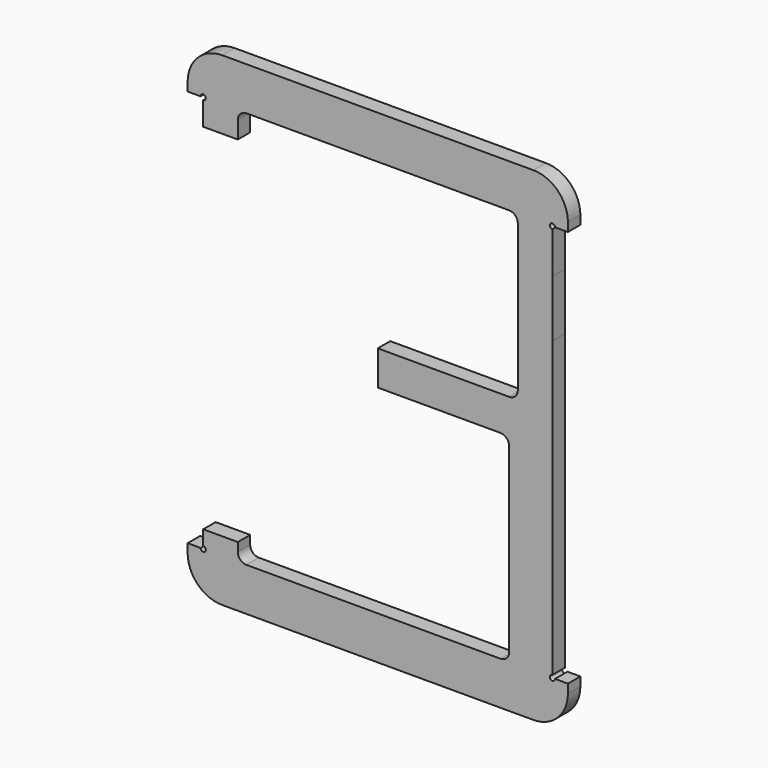
from build123d import *

# Parameters (mm, degrees)
F0_W     = 19.999999
F0_H     = 33
F0_W_2   = 15
F0_H_2   = 45
F1_DEPTH = 9


with BuildPart() as f1:
    # F0 (on Front) → F1 (new body)
    with BuildSketch(Plane.XZ):
        with BuildLine():
            Line((80.58994, 134.787209), (-99.41006, 134.787209))
            ThreePointArc((-99.41006, 134.787209), (-113.552195, 128.929344), (-119.41006, 114.787209))
            Line((-119.41006, 114.787209), (-119.41006, 109.787209))
            Line((-119.41006, 109.787209), (-111.91006, 109.787209))
            ThreePointArc((-111.91006, 109.787209), (-110.41006, 111.287209), (-108.91006, 109.787209))
            ThreePointArc((-108.91006, 109.787209), (-109.349399, 108.726549), (-110.41006, 108.287209))
            Line((-110.41006, 108.287209), (-110.41006, 94.787209))
            Line((-110.41006, 94.787209), (-90.41006, 94.787209))
            Line((-90.41006, 94.787209), (-90.41006, 104.787209))
            ThreePointArc((-90.41006, 104.787209), (-88.945593, 108.322743), (-85.41006, 109.787209))
            Line((-85.41006, 109.787209), (66.589941, 109.787209))
            ThreePointArc((66.589941, 109.787209), (70.125475, 108.322743), (71.589941, 104.787209))
            Line((71.589941, 104.787209), (71.589941, 84.287209))
            Line((71.589941, 84.287209), (91.58994, 84.287209))
            Line((91.58994, 84.287209), (91.58994, 108.287209))
            ThreePointArc((91.58994, 108.287209), (90.52928, 110.847869), (93.08994, 109.787209))
            Line((93.08994, 109.787209), (100.58994, 109.787209))
            Line((100.58994, 109.787209), (100.58994, 114.787209))
            ThreePointArc((100.58994, 114.787209), (94.732076, 128.929344), (80.58994, 134.787209))
        make_face()
        with BuildLine():
            Line((91.58994, -15.212791), (91.58994, 51.287209))
            Line((91.58994, 51.287209), (71.589941, 51.287209))
            Line((71.589941, 51.287209), (71.589941, 19.787209))
            ThreePointArc((71.589941, 19.787209), (70.125475, 16.251675), (66.589941, 14.787209))
            Line((66.589941, 14.787209), (-9.410059, 14.787209))
            Line((-9.410059, 14.787209), (-9.41006, -5.212791))
            Line((-9.41006, -5.212791), (61.589941, -5.212791))
            ThreePointArc((61.589941, -5.212791), (65.125475, -6.677257), (66.589941, -10.212791))
            Line((66.589941, -10.212791), (66.58994, -35.874643))
            Line((66.58994, -35.874643), (66.589941, -115.212791))
            ThreePointArc((66.589941, -115.212791), (65.125475, -118.748325), (61.589941, -120.212791))
            Line((61.589941, -120.212791), (-85.41006, -120.212791))
            ThreePointArc((-85.41006, -120.212791), (-88.945593, -118.748325), (-90.41006, -115.212791))
            Line((-90.41006, -115.212791), (-90.41006, -110.212791))
            Line((-90.41006, -110.212791), (-110.41006, -110.212791))
            Line((-110.41006, -110.212791), (-110.41006, -118.712791))
            ThreePointArc((-110.41006, -118.712791), (-109.349399, -119.152131), (-108.91006, -120.212791))
            ThreePointArc((-108.91006, -120.212791), (-110.41006, -121.712791), (-111.91006, -120.212791))
            Line((-111.91006, -120.212791), (-119.41006, -120.212791))
            Line((-119.41006, -120.212791), (-119.41006, -125.212791))
            ThreePointArc((-119.41006, -125.212791), (-113.552195, -139.354927), (-99.41006, -145.212791))
            Line((-99.41006, -145.212791), (80.58994, -145.212791))
            ThreePointArc((80.58994, -145.212791), (94.732076, -139.354927), (100.58994, -125.212791))
            Line((100.58994, -125.212791), (100.58994, -120.212791))
            Line((100.58994, -120.212791), (93.08994, -120.212791))
            ThreePointArc((93.08994, -120.212791), (90.52928, -121.273451), (91.58994, -118.712791))
            Line((91.58994, -118.712791), (91.58994, -110.212791))
            Line((91.58994, -110.212791), (91.58994, -60.212791))
            Line((91.58994, -60.212791), (76.58994, -60.212791))
            Line((76.58994, -60.212791), (76.58994, -15.212791))
            Line((76.58994, -15.212791), (91.58994, -15.212791))
        make_face()
        with Locations((81.58994, 67.787209)):
            Rectangle(F0_W, F0_H)
        with Locations((84.08994, -37.712791)):
            Rectangle(F0_W_2, F0_H_2)
    extrude(amount=-F1_DEPTH)


solid = f1.part
